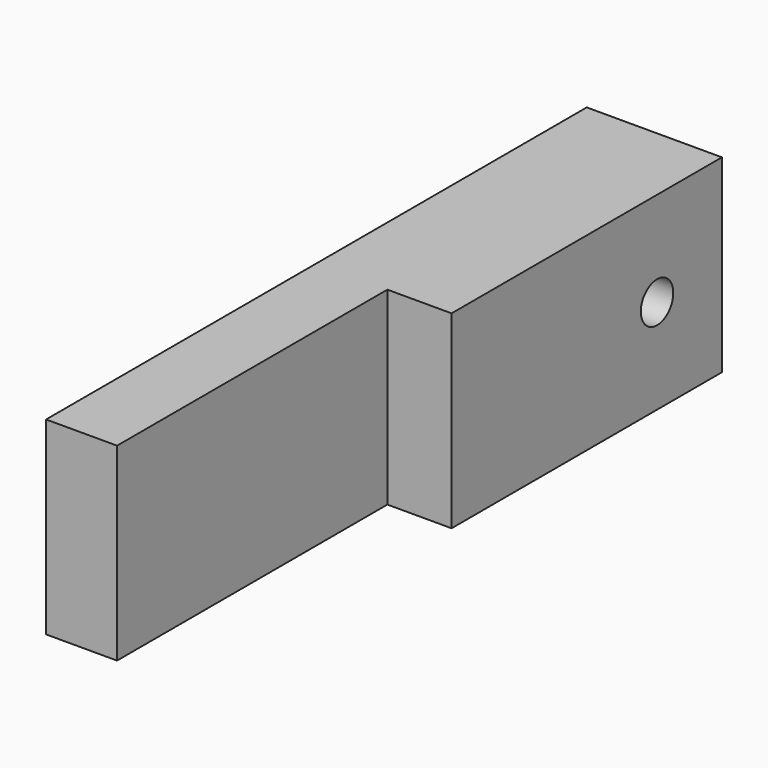
from build123d import *

# Parameters (mm, degrees)
F1_DEPTH = 14
F2_R     = 1.5
F3_DEPTH = 25


with BuildPart() as f1:
    # F0 (on Top) → F1 (new body)
    with BuildSketch(Plane.XY):
        Polygon((-5, -25), (0.25, -25), (0.25, 0), (5, 0), (5, 25), (-5, 25), align=None)
    extrude(amount=F1_DEPTH)

    # F2 (on face) → F3 (cut)
    with BuildSketch(Plane(origin=(-5, 0, 0), x_dir=(0, -1, 0), z_dir=(-1, 0, 0))):
        with Locations((-19, 7)):
            Circle(F2_R)
    extrude(amount=-F3_DEPTH, mode=Mode.SUBTRACT)


solid = f1.part
